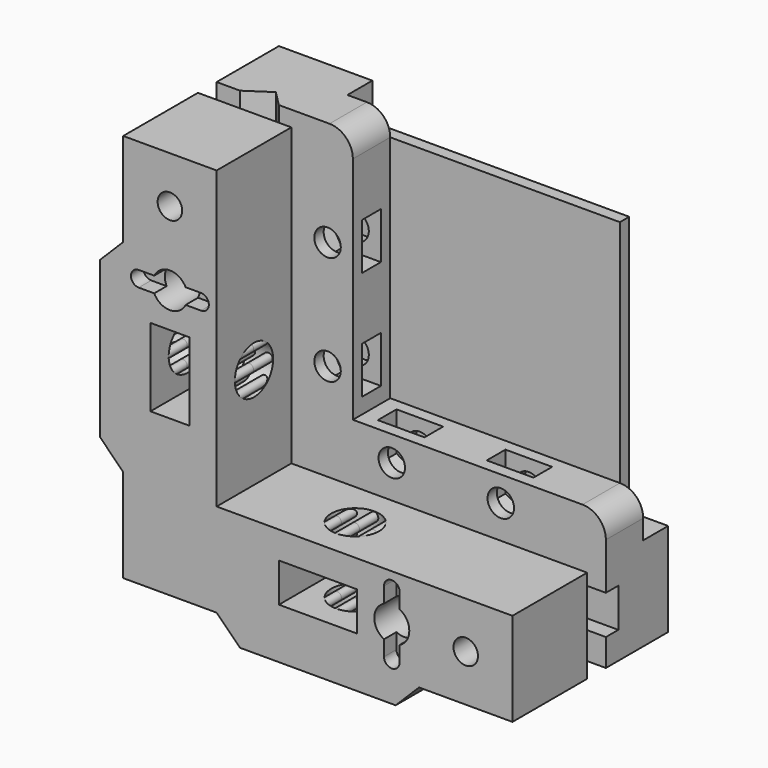
from build123d import *

# Parameters (mm, degrees)
PAD004_DEPTH         = 2.5
PAD003_DEPTH         = 2.5
PAD_DEPTH            = 12
SKETCH004_R          = 2.25
POCKET_DEPTH         = 12.001
SKETCH006_R          = 3.075
POCKET002_DEPTH      = 13
SKETCH007_R          = 1.575
POCKET003_DEPTH      = 12.001
SKETCH009_R          = 3.075
POCKET005_DEPTH      = 3.001
POCKET005_DEPTH_BACK = 50.001
SKETCH015_R          = 4
PAD008_DEPTH         = 5
PAD008_TAPER         = 37
POCKET006_DEPTH      = 2
SKETCH020_R          = 0.55
PAD010_DEPTH         = 5
SKETCH002_W          = 35
SKETCH002_H          = 35
PAD001_DEPTH         = 1.5
PAD006_DEPTH         = 4
PAD007_DEPTH         = 1.5
PAD002_DEPTH         = 10
SKETCH005_R          = 2.25
POCKET001_DEPTH      = 10.001
BOX_W                = 50
BOX_H                = 50
BOX_DEPTH            = 2
SKETCH008_R          = 2.5
POCKET004_DEPTH      = 1.5
POCKET004_TAPER      = 58
SKETCH016_R          = 1.7
HOLE_DEPTH           = 6
HOLE_TIPS_R          = 1.7
SKETCH017_R          = 0.55
PAD009_DEPTH         = 4
POCKET007_DEPTH      = 2
POCKET008_DEPTH      = 10
SKETCH022_W          = 2
SKETCH022_H          = 5
POCKET009_DEPTH      = 10


with BuildPart() as mountnutcapturecut2body:
    # Sketch011 → Pad004 (new body, symmetric)
    with BuildSketch(Plane.YZ.offset(6)):
        Polygon((-1.726497, 25), (-4.613249, 30), (-14.613249, 30), (-14.613249, 20), (-4.613249, 20), align=None)
    extrude(amount=PAD004_DEPTH, both=True)


with BuildPart() as mountnutcapturecut1body:
    # Sketch010 → Pad003 (new body, symmetric)
    with BuildSketch(Plane.XY.offset(6)):
        Polygon((30, -4.613249), (25, -1.726497), (20, -4.613249), (20, -14.613249), (30, -14.613249), align=None)
    extrude(amount=PAD003_DEPTH, both=True)


with BuildPart() as basebody:
    # Sketch001 (on DatumPlane) → Pad (new body)
    with BuildSketch(Plane.XZ.offset(1.5)):
        Polygon((0, 50), (12, 50), (12, 12), (50, 12), (50, 0), (38, 0), (35, -3), (15, -3), (12, 0), (0, 0), (0, 12), (-3, 15), (-3, 35), (0, 38), align=None)
    extrude(amount=PAD_DEPTH)

    # Sketch004 (on DatumPlane) → Pocket (cut, through all)
    with BuildSketch(Plane.XZ.offset(1.5)):
        with Locations((34.5, 6)):
            Circle(SKETCH004_R)
        with Locations((6, 34.5)):
            Circle(SKETCH004_R)
    extrude(amount=POCKET_DEPTH, mode=Mode.SUBTRACT)

    # Sketch006 → Pocket002 (cut, symmetric)
    with BuildSketch(Plane.XY):
        with Locations((25, -7.5)):
            Circle(SKETCH006_R)
    extrude(amount=POCKET002_DEPTH, both=True, mode=Mode.SUBTRACT)

    # Sketch007 (on DatumPlane) → Pocket003 (cut, through all)
    with BuildSketch(Plane.XZ.offset(1.5)):
        with Locations((44, 6)):
            Circle(SKETCH007_R)
        with Locations((6, 44)):
            Circle(SKETCH007_R)
    extrude(amount=POCKET003_DEPTH, mode=Mode.SUBTRACT)

    # Sketch009 → Pocket005 (cut, two sides)
    with BuildSketch(Plane.YZ) as pocket005_sk:
        with Locations((-7.5, 25)):
            Circle(SKETCH009_R)
    extrude(amount=-POCKET005_DEPTH, mode=Mode.SUBTRACT)
    extrude(pocket005_sk.sketch, amount=POCKET005_DEPTH_BACK, mode=Mode.SUBTRACT)

    # Boolean001: cut MountNutCaptureCut2Body
    add(mountnutcapturecut2body.part, mode=Mode.SUBTRACT)

    # Boolean002: cut MountNutCaptureCut1Body
    add(mountnutcapturecut1body.part, mode=Mode.SUBTRACT)

    # Sketch015 → Pad008 (join)
    with BuildSketch(Plane.XZ.offset(1.5)):
        with Locations((6, 6)):
            Circle(SKETCH015_R)
    extrude(amount=-PAD008_DEPTH, taper=PAD008_TAPER)

    # Sketch018 (on DatumPlane) → Pocket006 (cut)
    with BuildSketch(Plane.XZ.offset(13.5)):
        with BuildLine():
            ThreePointArc((35.5, 10), (34.5, 11), (33.5, 10))
            Line((33.5, 10), (33.5, 2))
            ThreePointArc((33.5, 2), (34.5, 1), (35.5, 2))
            Line((35.5, 2), (35.5, 10))
        make_face()
        with BuildLine():
            ThreePointArc((10, 33.5), (11, 34.5), (10, 35.5))
            Line((10, 35.5), (2, 35.5))
            ThreePointArc((2, 35.5), (1, 34.5), (2, 33.5))
            Line((2, 33.5), (10, 33.5))
        make_face()
    extrude(amount=-POCKET006_DEPTH, mode=Mode.SUBTRACT)

    # Sketch020 → Pad010 (join, symmetric)
    with BuildSketch(Plane.XZ.offset(7.5)):
        with Locations((27.325, 11.4)):
            Circle(SKETCH020_R)
        with Locations((25, 11.4)):
            Circle(SKETCH020_R)
        with Locations((22.675, 11.4)):
            Circle(SKETCH020_R)
        with Locations((27.325, 9.125)):
            Circle(SKETCH020_R)
        with Locations((25, 9.125)):
            Circle(SKETCH020_R)
        with Locations((22.675, 9.125)):
            Circle(SKETCH020_R)
        with Locations((27.325, 2.875)):
            Circle(SKETCH020_R)
        with Locations((27.325, 0)):
            Circle(SKETCH020_R)
        with Locations((27.325, -2.4)):
            Circle(SKETCH020_R)
        with Locations((25, 2.875)):
            Circle(SKETCH020_R)
        with Locations((25, 0)):
            Circle(SKETCH020_R)
        with Locations((25, -2.4)):
            Circle(SKETCH020_R)
        with Locations((22.675, 2.875)):
            Circle(SKETCH020_R)
        with Locations((22.675, 0)):
            Circle(SKETCH020_R)
        with Locations((22.675, -2.4)):
            Circle(SKETCH020_R)
        with Locations((-2.4, 27.325)):
            Circle(SKETCH020_R)
        with Locations((-2.4, 25)):
            Circle(SKETCH020_R)
        with Locations((-2.4, 22.675)):
            Circle(SKETCH020_R)
        with Locations((0, 27.325)):
            Circle(SKETCH020_R)
        with Locations((0, 25)):
            Circle(SKETCH020_R)
        with Locations((0, 22.675)):
            Circle(SKETCH020_R)
        with Locations((2.875, 27.325)):
            Circle(SKETCH020_R)
        with Locations((2.875, 25)):
            Circle(SKETCH020_R)
        with Locations((2.875, 22.675)):
            Circle(SKETCH020_R)
        with Locations((9.125, 27.325)):
            Circle(SKETCH020_R)
        with Locations((11.4, 27.325)):
            Circle(SKETCH020_R)
        with Locations((9.125, 25)):
            Circle(SKETCH020_R)
        with Locations((11.4, 25)):
            Circle(SKETCH020_R)
        with Locations((9.125, 22.675)):
            Circle(SKETCH020_R)
        with Locations((11.4, 22.675)):
            Circle(SKETCH020_R)
    extrude(amount=PAD010_DEPTH, both=True)


with BuildPart() as obj1:
    # Sketch002 → Pad001 (new body)
    with BuildSketch(Plane.XZ.offset(-7.5)):
        with Locations((29.5, 29.5)):
            Rectangle(SKETCH002_W, SKETCH002_H)
    extrude(amount=-PAD001_DEPTH)


with BuildPart() as setscrewbackplatecutbody:
    # Sketch013 → Pad006 (new body, symmetric)
    with BuildSketch(Plane.XZ.offset(-11.5)):
        with BuildLine():
            Line((19, 13.5), (19, 16))
            ThreePointArc((20.5, 17.5), (19.43934, 17.06066), (19, 16))
            Line((20.5, 17.5), (24.5, 17.5))
            ThreePointArc((26, 16), (25.56066, 17.06066), (24.5, 17.5))
            Line((26, 16), (26, 13.5))
            ThreePointArc((26, 13.5), (26.43934, 12.43934), (27.5, 12))
            Line((27.5, 12), (31.5, 12))
            ThreePointArc((31.5, 12), (32.56066, 12.43934), (33, 13.5))
            Line((33, 13.5), (33, 16))
            ThreePointArc((34.5, 17.5), (33.43934, 17.06066), (33, 16))
            Line((34.5, 17.5), (38.5, 17.5))
            ThreePointArc((40, 16), (39.56066, 17.06066), (38.5, 17.5))
            Line((40, 16), (40, 13.5))
            ThreePointArc((40, 13.5), (40.43934, 12.43934), (41.5, 12))
            Line((41.5, 12), (70, 12))
            Line((70, 12), (70, 23.387521))
            Line((70, 23.387521), (23.387521, 70))
            Line((23.387521, 70), (12, 70))
            Line((12, 70), (12, 41.5))
            ThreePointArc((12, 41.5), (12.43934, 40.43934), (13.5, 40))
            Line((13.5, 40), (16, 40))
            ThreePointArc((17.5, 38.5), (17.06066, 39.56066), (16, 40))
            Line((17.5, 38.5), (17.5, 34.5))
            ThreePointArc((16, 33), (17.06066, 33.43934), (17.5, 34.5))
            Line((16, 33), (13.5, 33))
            ThreePointArc((13.5, 33), (12.43934, 32.56066), (12, 31.5))
            Line((12, 31.5), (12, 27.5))
            ThreePointArc((12, 27.5), (12.43934, 26.43934), (13.5, 26))
            Line((13.5, 26), (16, 26))
            ThreePointArc((17.5, 24.5), (17.06066, 25.56066), (16, 26))
            Line((17.5, 24.5), (17.5, 20.5))
            ThreePointArc((16, 19), (17.06066, 19.43934), (17.5, 20.5))
            Line((16, 19), (13.5, 19))
            ThreePointArc((13.5, 19), (12.43934, 18.56066), (12, 17.5))
            Line((12, 17.5), (12, 13.5))
            ThreePointArc((11.221376, 12.229989), (11.789849, 12.755154), (12, 13.5))
            ThreePointArc((11.221376, 12.229989), (11.031264, 11.031264), (12.229989, 11.221376))
            ThreePointArc((13.5, 12), (12.755154, 11.789849), (12.229989, 11.221376))
            Line((13.5, 12), (17.5, 12))
            ThreePointArc((17.5, 12), (18.56066, 12.43934), (19, 13.5))
        make_face()
    extrude(amount=PAD006_DEPTH, both=True)


with BuildPart() as setscrewcapturecutbody:
    # Sketch014 → Pad007 (new body, symmetric)
    with BuildSketch(Plane.XZ.offset(-4.5)):
        Polygon((39.5, 19.5), (39.5, 12.517949), (36.5, 10.785898), (33.5, 12.517949), (33.5, 19.5), (25.5, 19.5), (25.5, 12.517949), (22.499998, 10.785898), (19.5, 12.517949), (19.5, 19.5), (12.517949, 19.5), (10.785898, 22.499998), (12.517949, 25.5), (19.5, 25.5), (19.5, 33.5), (12.517949, 33.5), (10.785898, 36.5), (12.517949, 39.5), (19.5, 39.5), align=None)
    extrude(amount=PAD007_DEPTH, both=True)


with BuildPart() as obj2:
    # Sketch003 (on DatumPlane) → Pad002 (new body)
    with BuildSketch(Plane.XZ.offset(-1.5)):
        with BuildLine():
            Line((0, 0), (50, 0))
            Line((50, 0), (50, 14.5))
            ThreePointArc((50, 14.5), (49.12132, 16.62132), (47, 17.5))
            Line((47, 17.5), (17.5, 17.5))
            Line((17.5, 17.5), (17.5, 47))
            ThreePointArc((17.5, 47), (16.62132, 49.12132), (14.5, 50))
            Line((14.5, 50), (0, 50))
            Line((0, 50), (0, 0))
        make_face()
    extrude(amount=-PAD002_DEPTH)

    # Sketch005 (on DatumPlane) → Pocket001 (cut, through all)
    with BuildSketch(Plane.XZ.offset(-1.5)):
        with Locations((34.5, 6)):
            Circle(SKETCH005_R)
        with Locations((6, 34.5)):
            Circle(SKETCH005_R)
    extrude(amount=-POCKET001_DEPTH, mode=Mode.SUBTRACT)

    # Box → Box (cut)
    with BuildSketch(Plane(origin=(12, 9.5, 12), x_dir=(1, 0, 0), z_dir=(0, -1, 0))):
        with Locations((25, 25)):
            Rectangle(BOX_W, BOX_H)
    extrude(amount=BOX_DEPTH, mode=Mode.SUBTRACT)

    # Sketch008 (on DatumPlane) → Pocket004 (cut)
    with BuildSketch(Plane.XZ.offset(-1.5)):
        with Locations((6, 6)):
            Circle(SKETCH008_R)
    extrude(amount=-POCKET004_DEPTH, taper=POCKET004_TAPER, mode=Mode.SUBTRACT)

    # Boolean003: cut SetscrewBackplateCutBody
    add(setscrewbackplatecutbody.part, mode=Mode.SUBTRACT)

    # Boolean004: cut SetscrewCaptureCutBody
    add(setscrewcapturecutbody.part, mode=Mode.SUBTRACT)

    # Sketch016 (on DatumPlane) → Hole (cut)
    with BuildSketch(Plane.XZ.offset(-1.5)):
        with Locations((36.5, 14.25)):
            Circle(SKETCH016_R)
        with Locations((22.5, 14.25)):
            Circle(SKETCH016_R)
        with Locations((14.25, 22.5)):
            Circle(SKETCH016_R)
        with Locations((14.25, 36.5)):
            Circle(SKETCH016_R)
    extrude(amount=-HOLE_DEPTH, mode=Mode.SUBTRACT)

    # Hole tips → Hole tip 1 section 0
    with BuildSketch(Plane.XZ.offset(-7.5), mode=Mode.PRIVATE) as hole_tip_1_s0:
        with Locations((36.5, 14.25)):
            Circle(HOLE_TIPS_R)
    loft([hole_tip_1_s0.sketch, Vertex(36.5, 8.521463, 14.25)], mode=Mode.SUBTRACT)

    # Hole tips → Hole tip 2 section 0
    with BuildSketch(Plane.XZ.offset(-7.5), mode=Mode.PRIVATE) as hole_tip_2_s0:
        with Locations((22.5, 14.25)):
            Circle(HOLE_TIPS_R)
    loft([hole_tip_2_s0.sketch, Vertex(22.5, 8.521463, 14.25)], mode=Mode.SUBTRACT)

    # Hole tips → Hole tip 3 section 0
    with BuildSketch(Plane.XZ.offset(-7.5), mode=Mode.PRIVATE) as hole_tip_3_s0:
        with Locations((14.25, 22.5)):
            Circle(HOLE_TIPS_R)
    loft([hole_tip_3_s0.sketch, Vertex(14.25, 8.521463, 22.5)], mode=Mode.SUBTRACT)

    # Hole tips → Hole tip 4 section 0
    with BuildSketch(Plane.XZ.offset(-7.5), mode=Mode.PRIVATE) as hole_tip_4_s0:
        with Locations((14.25, 36.5)):
            Circle(HOLE_TIPS_R)
    loft([hole_tip_4_s0.sketch, Vertex(14.25, 8.521463, 36.5)], mode=Mode.SUBTRACT)

    # Sketch017 (on DatumPlane) → Pad009 (join)
    with BuildSketch(Plane.XZ.offset(-11.5)):
        with Locations((38.9, 16.8)):
            Circle(SKETCH017_R)
        with Locations((34.1, 16.8)):
            Circle(SKETCH017_R)
        with Locations((24.9, 16.8)):
            Circle(SKETCH017_R)
        with Locations((20.1, 16.8)):
            Circle(SKETCH017_R)
        with Locations((16.8, 20.1)):
            Circle(SKETCH017_R)
        with Locations((16.8, 24.9)):
            Circle(SKETCH017_R)
        with Locations((16.8, 34.1)):
            Circle(SKETCH017_R)
        with Locations((16.8, 38.9)):
            Circle(SKETCH017_R)
    extrude(amount=PAD009_DEPTH)

    # Sketch019 (on DatumPlane) → Pocket007 (cut)
    with BuildSketch(Plane.XZ.offset(-11.5)):
        with BuildLine():
            ThreePointArc((35.5, 10), (34.5, 11), (33.5, 10))
            Line((33.5, 10), (33.5, 2))
            ThreePointArc((33.5, 2), (34.5, 1), (35.5, 2))
            Line((35.5, 2), (35.5, 10))
        make_face()
        with BuildLine():
            ThreePointArc((10, 33.5), (11, 34.5), (10, 35.5))
            Line((10, 35.5), (2, 35.5))
            ThreePointArc((2, 35.5), (1, 34.5), (2, 33.5))
            Line((2, 33.5), (10, 33.5))
        make_face()
    extrude(amount=POCKET007_DEPTH, mode=Mode.SUBTRACT)

    # Sketch021 → Pocket008 (cut)
    with BuildSketch(Plane.XY.offset(50)):
        Polygon((3, 1.5), (8, 1.5), (6, 3.5), align=None)
    extrude(amount=-POCKET008_DEPTH, mode=Mode.SUBTRACT)

    # Sketch022 → Pocket009 (cut)
    with BuildSketch(Plane.YZ.offset(50)):
        with Locations((2.5, 6)):
            Rectangle(SKETCH022_W, SKETCH022_H)
    extrude(amount=-POCKET009_DEPTH, mode=Mode.SUBTRACT)


solid = Compound([basebody.part, obj1.part, obj2.part])
